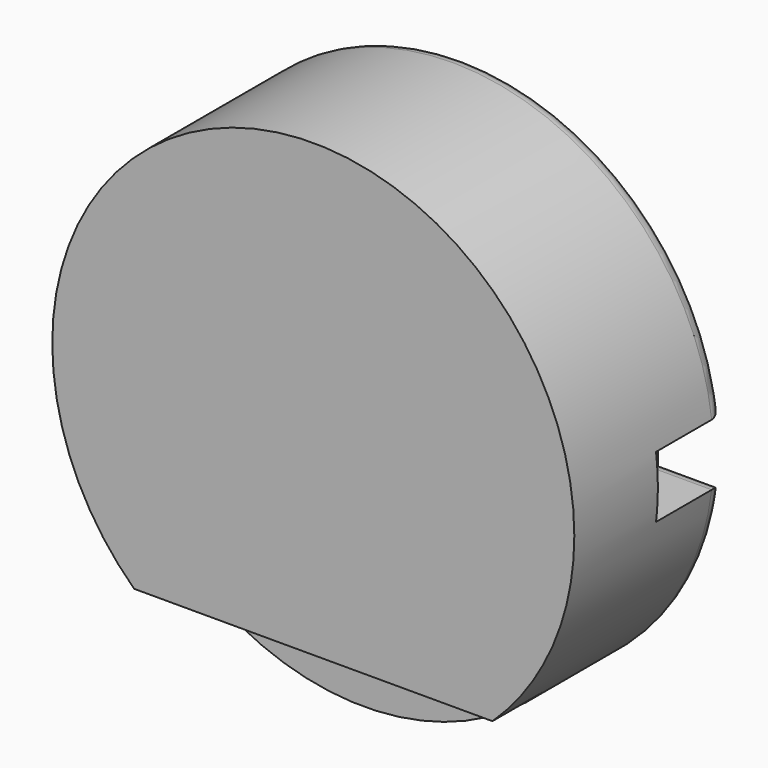
from build123d import *

# Parameters (mm, degrees)
SKETCH100_W     = 14
SKETCH100_H     = 2
PAD063_DEPTH    = 3
SKETCH110_R     = 8.25
PAD067_DEPTH    = 6
POCKET022_DEPTH = 2.7
FILLET009_R     = 0.5


with BuildPart() as hole006:
    # Sketch100 → Pad063 (new body)
    with BuildSketch(Plane.XY):
        with Locations((0, 1)):
            Rectangle(SKETCH100_W, SKETCH100_H)
    extrude(amount=PAD063_DEPTH)


with BuildPart() as hole006_1:
    # Body025 placement: moved
    add(hole006.part.moved(Location((0, 0, -9))))


with BuildPart() as metal_case001:
    # Sketch110 → Pad067 (new body)
    with BuildSketch(Plane.XZ):
        Circle(SKETCH110_R)
    extrude(amount=PAD067_DEPTH)

    # Sketch102 (on Face2 of Pad067) → Pocket022 (cut)
    with BuildSketch(Plane(origin=(0, 0, 0), x_dir=(1, 0, 0), z_dir=(0, 1, 0))):
        Polygon((6.35, 0.975), (8.25, 0.975), (8.25, -0.975), (6.35, -0.975), (6.35, 0), align=None)
    extrude(amount=-POCKET022_DEPTH, mode=Mode.SUBTRACT)

    # Fillet009
    fillet009_edges = [metal_case001.edges().sort_by_distance(p)[0] for p in [
        (7.271092, 0, 0.975),
        (6.35, 0, 0.4875),
        (6.35, 0, -0.4875),
        (7.271092, 0, -0.975),
        (-8.25, 0, 0),
    ]]
    fillet(fillet009_edges, radius=FILLET009_R)


with BuildPart() as metal_case001_1:
    # Body027 placement: moved
    add(metal_case001.part.moved(Location((0, 6, 0))))

    # Cut001: cut Hole006
    add(hole006_1.part, mode=Mode.SUBTRACT)


solid = metal_case001_1.part
